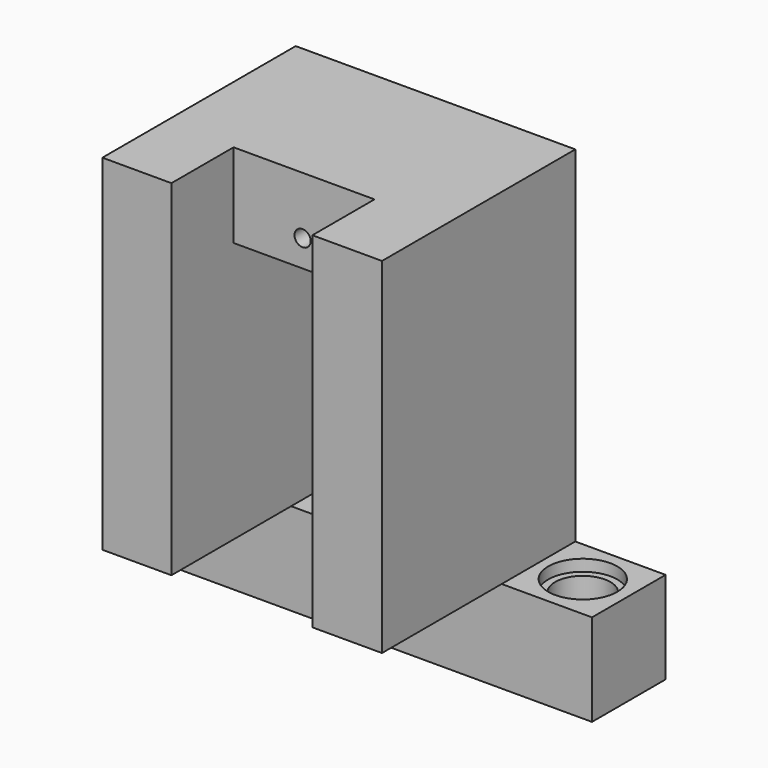
from build123d import *

# Parameters (mm, degrees)
CYLINDER009_R     = 0.7
CYLINDER009_DEPTH = 16
BOX010_W          = 12.25
BOX010_H          = 10
BOX010_DEPTH      = 10
BOX009_W          = 12.25
BOX009_H          = 23.78
BOX009_DEPTH      = 22.68
BOX011_W          = 24.3
BOX011_H          = 21
BOX011_DEPTH      = 30
CYLINDER012_R     = 3
CYLINDER012_DEPTH = 1
CYLINDER013_R     = 2.4
CYLINDER013_DEPTH = 8
CYLINDER011_R     = 3
CYLINDER011_DEPTH = 1
ARRAY_X_COUNT     = 2
ARRAY_X_PITCH     = 32
BOX012_W          = 40
BOX012_H          = 8
BOX012_DEPTH      = 8


with BuildPart() as cylinder009:
    # Cylinder009 → Cylinder009 (new body)
    with BuildSketch(Plane(origin=(6, 22, 25), x_dir=(1, 0, 0), z_dir=(0, -1, 0))):
        Circle(CYLINDER009_R)
    extrude(amount=CYLINDER009_DEPTH)


with BuildPart() as cube006:
    # Box010 → Box010 (new body)
    with BuildSketch(Plane(origin=(0, -3.25, 22), x_dir=(1, 0, 0), z_dir=(0, 0, 1))):
        with Locations((6.125, 5)):
            Rectangle(BOX010_W, BOX010_H)
    extrude(amount=BOX010_DEPTH)


with BuildPart() as servo004:
    # Box009 → Box009 (new body)
    with BuildSketch(Plane(origin=(0, -1, 0), x_dir=(1, 0, 0), z_dir=(0, 0, 1))):
        with Locations((6.125, 11.89)):
            Rectangle(BOX009_W, BOX009_H)
    extrude(amount=BOX009_DEPTH)

    # Fusion007: union Cube006
    add(cube006.part)


with BuildPart() as fusion008:
    # Fusion008 base: copy of Cube006
    add(cube006.part)

    # Fusion008: union servo004
    add(servo004.part)


with BuildPart() as box:
    # Box011 → Box011 (new body)
    with BuildSketch(Plane(origin=(-6, 0, 0), x_dir=(1, 0, 0), z_dir=(0, 0, 1))):
        with Locations((12.15, 10.5)):
            Rectangle(BOX011_W, BOX011_H)
    extrude(amount=BOX011_DEPTH)

    # Cut006: cut Fusion008
    add(fusion008.part, mode=Mode.SUBTRACT)

    # Cut007: cut Cylinder009
    add(cylinder009.part, mode=Mode.SUBTRACT)


with BuildPart() as box_1:
    # Cut007 placement: moved
    add(box.part.moved(Location((9.85, -17, 8))))


with BuildPart() as cylinder012:
    # Cylinder012 → Cylinder012 (new body)
    with BuildSketch(Plane.XY.offset(7)):
        Circle(CYLINDER012_R)
    extrude(amount=CYLINDER012_DEPTH)


with BuildPart() as cylinder013:
    # Cylinder013 → Cylinder013 (new body)
    with BuildSketch(Plane.XY):
        Circle(CYLINDER013_R)
    extrude(amount=CYLINDER013_DEPTH)


with BuildPart() as array:
    # Cylinder011 → Cylinder011 (new body)
    with BuildSketch(Plane.XY):
        Circle(CYLINDER011_R)
    extrude(amount=CYLINDER011_DEPTH)

    # Fusion009: union Cylinder012, Cylinder013
    add(cylinder012.part)
    add(cylinder013.part)

    # Array X: Array ×2


with BuildPart() as array_1:
    add(array.part)
    with Locations(*[(i * ARRAY_X_PITCH, 0, 0) for i in range(1, ARRAY_X_COUNT)]):
        add(array.part)


with BuildPart() as fusion010:
    # Box012 → Box012 (new body)
    with BuildSketch(Plane(origin=(-4, -4, 0), x_dir=(1, 0, 0), z_dir=(0, 0, 1))):
        with Locations((20, 4)):
            Rectangle(BOX012_W, BOX012_H)
    extrude(amount=BOX012_DEPTH)

    # Cut008: cut Array
    add(array_1.part, mode=Mode.SUBTRACT)

    # Fusion010: union box
    add(box_1.part)


solid = fusion010.part
